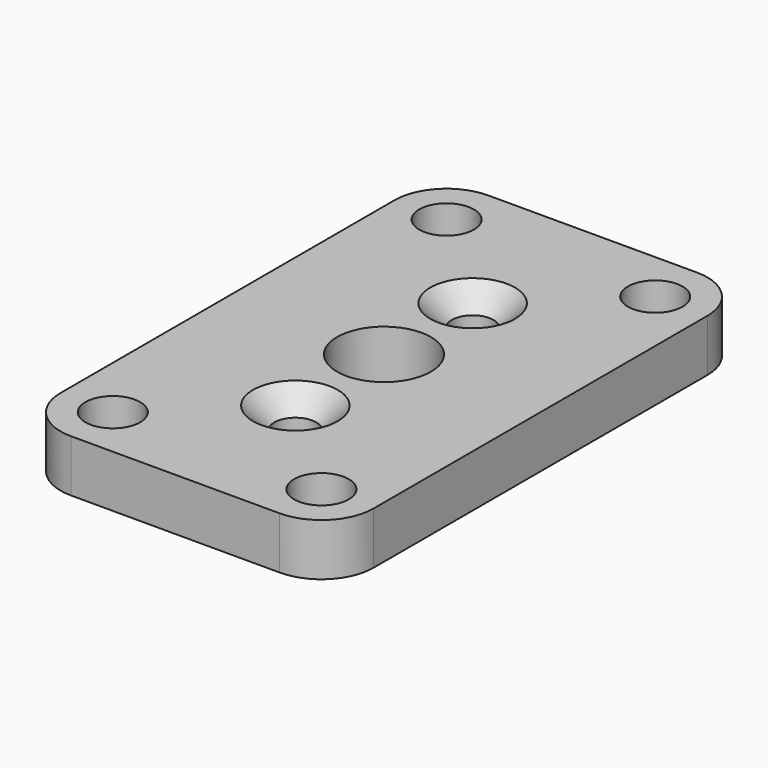
from build123d import *

# Parameters (mm, degrees)
F0_R     = 2.1
F0_R_2   = 1.6
F0_R_3   = 3.6
F1_DEPTH = 4
F2_SIZE2 = 1.65
F2_SIZE  = 1.65


with BuildPart() as f1:
    # F0 (on Top) → F1 (new body)
    with BuildSketch(Plane.XY):
        with BuildLine():
            ThreePointArc((12, 16), (10.828427, 18.828427), (8, 20))
            Line((8, 20), (-8, 20))
            ThreePointArc((-8, 20), (-10.828427, 18.828427), (-12, 16))
            Line((-12, 16), (-12, -16))
            ThreePointArc((-12, -16), (-10.828427, -18.828427), (-8, -20))
            Line((-8, -20), (8, -20))
            ThreePointArc((8, -20), (10.828427, -18.828427), (12, -16))
            Line((12, -16), (12, 16))
        make_face()
        with Locations((-8, -16)):
            Circle(F0_R, mode=Mode.SUBTRACT)
        with Locations((8, -16)):
            Circle(F0_R, mode=Mode.SUBTRACT)
        with Locations((0, -8.5)):
            Circle(F0_R_2, mode=Mode.SUBTRACT)
        with Locations((-8, 16)):
            Circle(F0_R, mode=Mode.SUBTRACT)
        Circle(F0_R_3, mode=Mode.SUBTRACT)
        with Locations((0, 8.5)):
            Circle(F0_R_2, mode=Mode.SUBTRACT)
        with Locations((8, 16)):
            Circle(F0_R, mode=Mode.SUBTRACT)
    extrude(amount=F1_DEPTH)

    # F2
    f2_edges = [f1.edges().sort_by_distance(p)[0] for p in [
        (-1.6, 8.5, 4),
        (-1.6, -8.5, 4),
    ]]
    chamfer(f2_edges, length=F2_SIZE, length2=F2_SIZE2)


solid = f1.part
